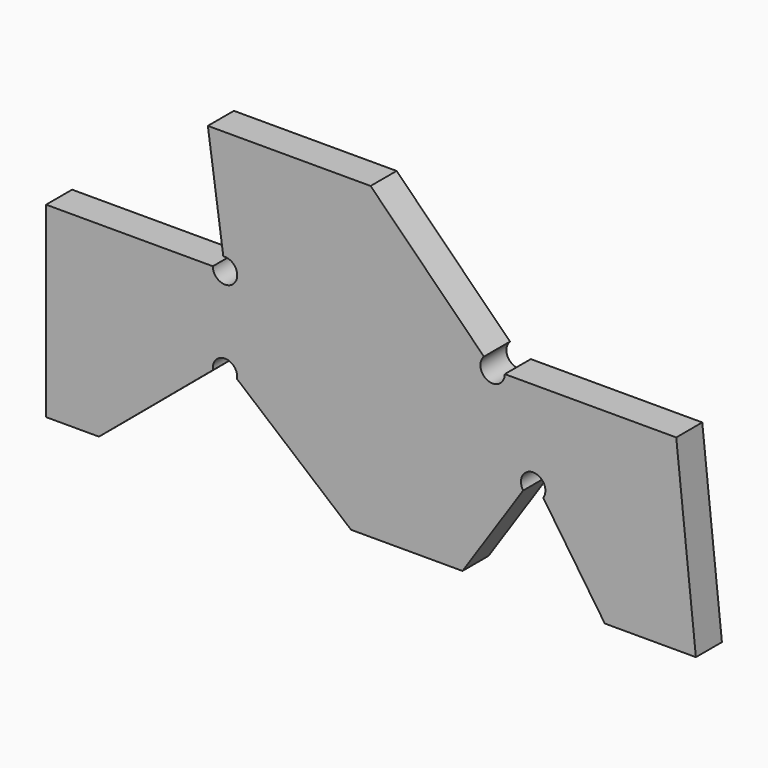
from build123d import *

# Parameters (mm, degrees)
F1_DEPTH = 4


with BuildPart() as f1:
    # F0 (on Front) → F1 (new body)
    with BuildSketch(Plane.XZ):
        with BuildLine():
            Line((-19.608427, 12.045941), (-39.61654, 12.045941))
            Line((-39.61654, 12.045941), (-37.717187, -1.468657))
            ThreePointArc((-37.717187, -1.468657), (-36.376363, -3.938148), (-39.008427, -2.954059))
            Line((-39.008427, -2.954059), (-59.508427, -2.954059))
            Line((-59.508427, -2.954059), (-59.508427, -25.954059))
            Line((-59.508427, -25.954059), (-53.008427, -25.954059))
            Line((-53.008427, -25.954059), (-38.989615, -14.190879))
            ThreePointArc((-38.989615, -14.190879), (-37.508427, -12.454059), (-36.02724, -14.190879))
            Line((-36.02724, -14.190879), (-22.008427, -25.954059))
            Line((-22.008427, -25.954059), (-8.308427, -25.954059))
            Line((-8.308427, -25.954059), (-0.842829, -14.814868))
            ThreePointArc((-0.842829, -14.814868), (0.378701, -12.454237), (1.622211, -14.803363))
            Line((1.622211, -14.803363), (9.191573, -25.954059))
            Line((9.191573, -25.954059), (20.391573, -25.954059))
            Line((20.391573, -25.954059), (17.974175, -2.954059))
            Line((17.974175, -2.954059), (-3.108427, -2.954059))
            ThreePointArc((-3.108427, -2.954059), (-5.182452, -4.339879), (-5.669087, -1.893399))
            Line((-5.669087, -1.893399), (-19.608427, 12.045941))
        make_face()
    extrude(amount=F1_DEPTH)


solid = f1.part
